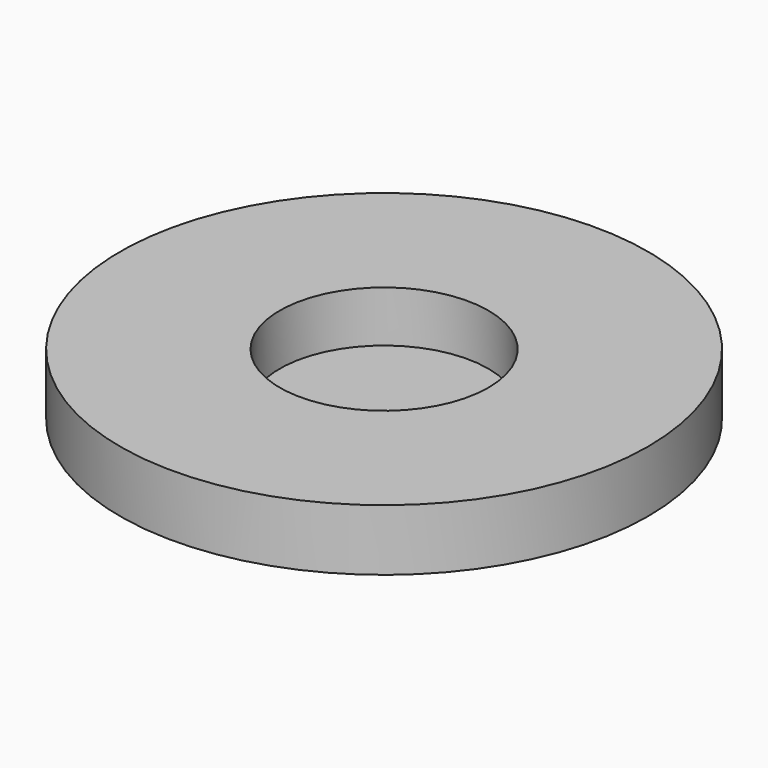
from build123d import *

# Parameters (mm, degrees)
SKETCH_R     = 12.9
PAD_DEPTH    = 3
SKETCH001_R  = 5.1
POCKET_DEPTH = 2.5


with BuildPart() as part:
    # Sketch → Pad (new body)
    with BuildSketch(Plane.XY):
        Circle(SKETCH_R)
    extrude(amount=PAD_DEPTH)

    # Sketch001 (on Face3 of Pad) → Pocket (cut)
    with BuildSketch(Plane.XY.offset(3)):
        Circle(SKETCH001_R)
    extrude(amount=-POCKET_DEPTH, mode=Mode.SUBTRACT)


solid = part.part
